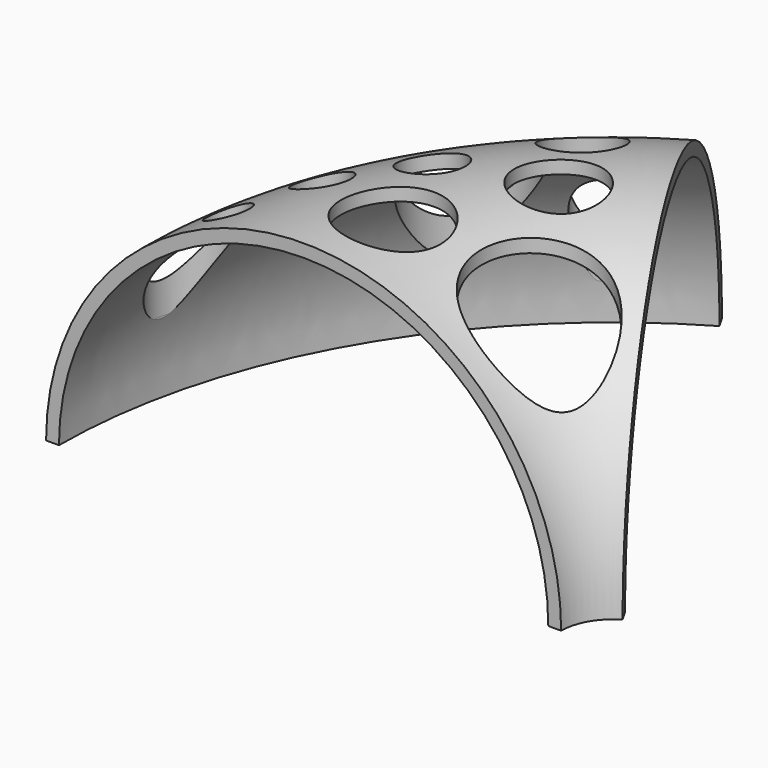
from build123d import *

# Parameters (mm, degrees)
F1_ANGLE      = -60
F2_R          = 4.988186
F2_R_2        = 11.465082
F2_R_3        = 7.598949
F2_R_4        = 7.151255
F2_R_5        = 8.239254
F2_R_6        = 9.791354
F2_R_7        = 5.910551
F2_R_8        = 3.896683
F2_R_9        = 7.696773
F2_R_10       = 5.070825
F2_R_11       = 12.509846
F3_DEPTH      = 40
F3_DEPTH_BACK = 25


with BuildPart() as f1:
    # F0 (on Front) → F1 (revolve)
    with BuildSketch(Plane.XZ):
        with BuildLine():
            ThreePointArc((-47.5, -15.517607), (0, 31.982393), (47.5, -15.517607))
            Line((47.5, -15.517607), (50, -15.517607))
            ThreePointArc((50, -15.517607), (0, 34.482393), (-50, -15.517607))
            Line((-50, -15.517607), (-47.5, -15.517607))
        make_face()
    revolve(axis=Axis((60, 0, -6.137641), (0, 0, 1)), revolution_arc=F1_ANGLE)

    # F2 (on Top) → F3 (cut, two sides)
    with BuildSketch(Plane.XY) as f3_sk:
        with Locations((-5.04234, 78.495406)):
            Circle(F2_R)
        with Locations((-13.987815, 58.014978)):
            Circle(F2_R_2)
        with Locations((-25.758175, 36.357515)):
            Circle(F2_R_3)
        with Locations((9.082094, 56.367129)):
            Circle(F2_R_4)
        with Locations((17.792162, 39.653216)):
            Circle(F2_R_5)
        with Locations((4.844762, 15.64168)):
            Circle(F2_R_6)
        with Locations((-3.159083, 35.180479)):
            Circle(F2_R_7)
        with Locations((-21.285439, 8.344054)):
            Circle(F2_R_8)
        with Locations((-35.64528, 17.995751)):
            Circle(F2_R_9)
        with Locations((-14.929444, 23.174709)):
            Circle(F2_R_10)
        with Locations((31.916596, 17.289529)):
            Circle(F2_R_11)
        with Locations((6.257208, 72.374821)):
            Circle(F2_R)
    extrude(amount=F3_DEPTH, mode=Mode.SUBTRACT)
    extrude(f3_sk.sketch, amount=-F3_DEPTH_BACK, mode=Mode.SUBTRACT)


solid = f1.part
